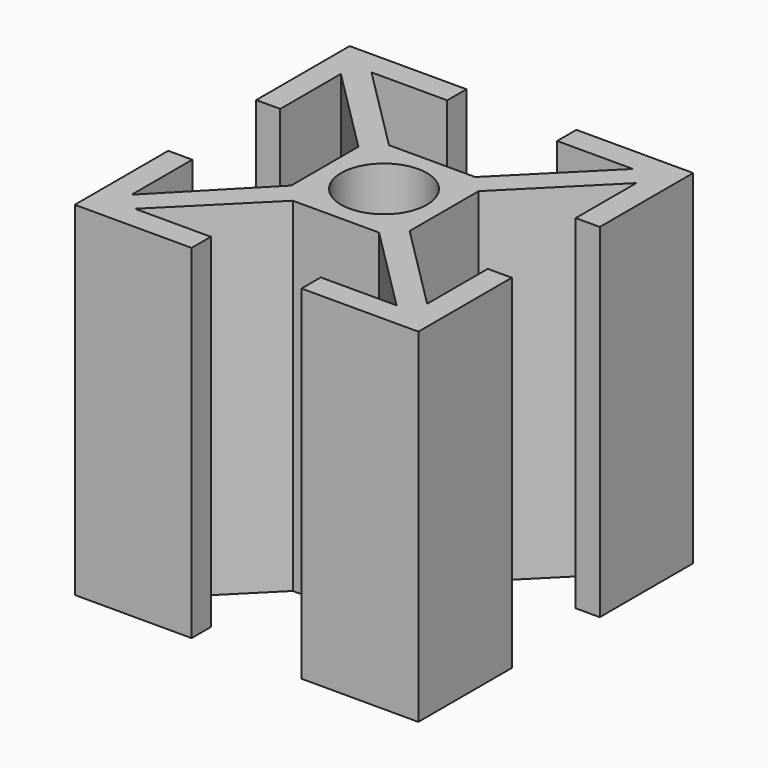
from build123d import *

# Parameters (mm, degrees)
F0_R     = 2.5
F1_DEPTH = 20


with BuildPart() as f1:
    # F0 (on Top) → F1 (new body)
    with BuildSketch(Plane.XY):
        Polygon((6.5, 7.616114), (1.4, 2.389949), (1.4, 6.8), (0, 6.8), (0, 0), (6.8, 0), (6.8, 1.4), (2.389949, 1.4), (7.489949, 6.5), (12.510051, 6.5), (17.610051, 1.4), (13.2, 1.4), (13.2, 0), (20, 0), (20, 6.8), (18.6, 6.8), (18.6, 2.389949), (13.5, 7.489949), (13.5, 12.510051), (18.6, 17.610051), (18.6, 13.2), (20, 13.2), (20, 20), (13.2, 20), (13.2, 18.6), (17.610051, 18.6), (12.510051, 13.5), (7.489949, 13.5), (2.389949, 18.6), (6.8, 18.6), (6.8, 20), (0, 20), (0, 13.2), (1.4, 13.2), (1.4, 17.610051), (6.5, 12.510051), align=None)
        with Locations((10, 10)):
            Circle(F0_R, mode=Mode.SUBTRACT)
    extrude(amount=F1_DEPTH)


solid = f1.part
